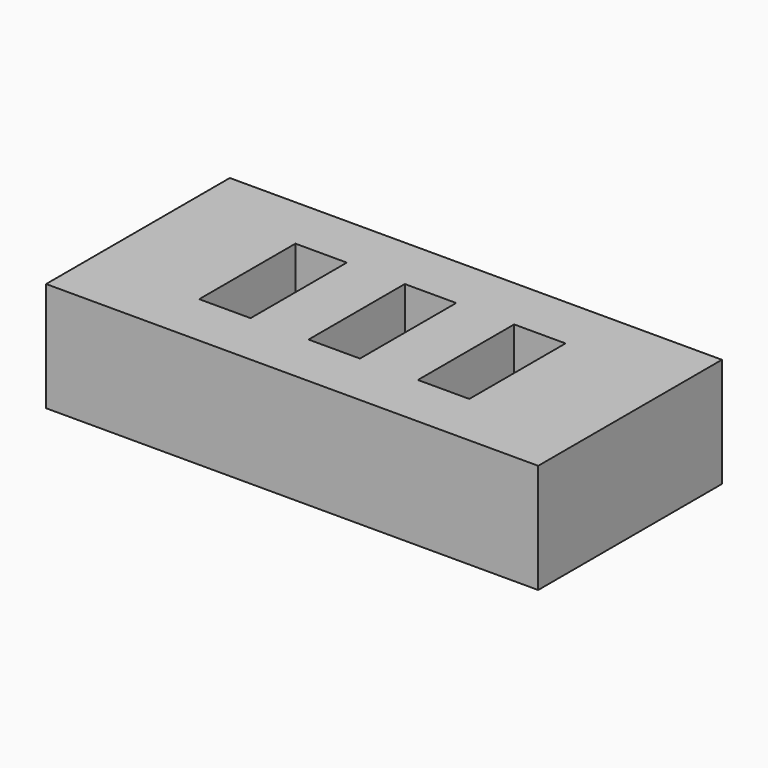
from build123d import *

# Parameters (mm, degrees)
BOX002_W     = 4.7
BOX002_H     = 11
BOX002_DEPTH = 13
BOX001_W     = 4.7
BOX001_H     = 11
BOX001_DEPTH = 13
BOX003_W     = 4.7
BOX003_H     = 11
BOX003_DEPTH = 13
BOX_W        = 45
BOX_H        = 21
BOX_DEPTH    = 10


with BuildPart() as obj1:
    # Box002 → Box002 (new body)
    with BuildSketch(Plane(origin=(20, 5, 0), x_dir=(1, 0, 0), z_dir=(0, 0, 1))):
        with Locations((2.35, 5.5)):
            Rectangle(BOX002_W, BOX002_H)
    extrude(amount=BOX002_DEPTH)


with BuildPart() as fusion:
    # Box001 → Box001 (new body)
    with BuildSketch(Plane(origin=(10, 5, 0), x_dir=(1, 0, 0), z_dir=(0, 0, 1))):
        with Locations((2.35, 5.5)):
            Rectangle(BOX001_W, BOX001_H)
    extrude(amount=BOX001_DEPTH)

    # Fusion: union obj1
    add(obj1.part)


with BuildPart() as ranuras:
    # Box003 → Box003 (new body)
    with BuildSketch(Plane(origin=(30, 5, 0), x_dir=(1, 0, 0), z_dir=(0, 0, 1))):
        with Locations((2.35, 5.5)):
            Rectangle(BOX003_W, BOX003_H)
    extrude(amount=BOX003_DEPTH)

    # Fusion001: union Fusion
    add(fusion.part)


with BuildPart() as cut:
    # Box → Box (new body)
    with BuildSketch(Plane.XY):
        with Locations((22.5, 10.5)):
            Rectangle(BOX_W, BOX_H)
    extrude(amount=BOX_DEPTH)

    # Cut: cut ranuras
    add(ranuras.part, mode=Mode.SUBTRACT)


solid = cut.part
